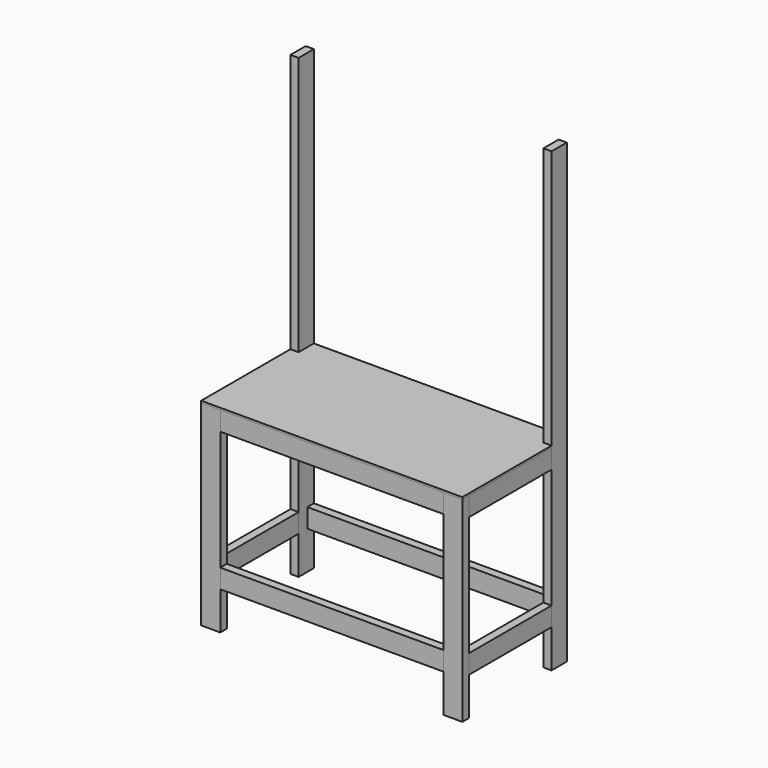
from build123d import *

# Parameters (mm, degrees)
F0_W      = 38.1
F0_H      = 88.9
F1_DEPTH  = 2133.6
F0_W_2    = 88.9
F0_H_2    = 38.1
F2_DEPTH  = 914.4
F3_W      = 1041.4
F3_H      = 88.9
F4_DEPTH  = 38.1
F5_W      = 482.6
F5_H      = 88.9
F6_DEPTH  = 38.1
F7_W      = 1143
F7_H      = 88.9
F8_DEPTH  = 38.1
F9_W      = 482.6
F9_H      = 88.9
F10_DEPTH = 38.1
F11_W     = 38.76292
F11_H     = 482.6
F11_W_2   = 1143
F11_H_2   = 37.750807
F11_W_3   = 37.43708
F11_W_4   = 1041.4
F11_H_3   = 38.1
F12_DEPTH = 88.9
F14_DEPTH = 9.525


with BuildPart() as f1:
    # F0 (on Top) → F1 (new body)
    with BuildSketch(Plane.XY):
        with Locations((-590.55, 260.35)):
            Rectangle(F0_W, F0_H)
        with Locations((590.55, 260.35)):
            Rectangle(F0_W, F0_H)
    extrude(amount=F1_DEPTH)


with BuildPart() as f2:
    # F0 (on Top) → F2 (new body)
    with BuildSketch(Plane.XY):
        with Locations((-565.15, -285.75)):
            Rectangle(F0_W_2, F0_H_2)
        with Locations((565.15, -285.75)):
            Rectangle(F0_W_2, F0_H_2)
    extrude(amount=F2_DEPTH)


with BuildPart() as f4:
    # F3 (on face) → F4 (new body)
    with BuildSketch(Plane.XZ.offset(304.8)):
        with Locations((0, 222.25)):
            Rectangle(F3_W, F3_H)
    extrude(amount=-F4_DEPTH)


with BuildPart() as f6:
    # F5 (on face) → F6 (new body)
    with BuildSketch(Plane.YZ.offset(609.6)):
        with Locations((-25.4, 222.25)):
            Rectangle(F5_W, F5_H)
    extrude(amount=-F6_DEPTH)


with BuildPart() as f8:
    # F7 (on face) → F8 (new body)
    with BuildSketch(Plane(origin=(0, 304.8, 0), x_dir=(-1, 0, 0), z_dir=(0, 1, 0))):
        with Locations((0, 222.25)):
            Rectangle(F7_W, F7_H)
    extrude(amount=-F8_DEPTH)


with BuildPart() as f10:
    # F9 (on face) → F10 (new body)
    with BuildSketch(Plane(origin=(-609.6, 0, 0), x_dir=(0, -1, 0), z_dir=(-1, 0, 0))):
        with Locations((25.4, 222.25)):
            Rectangle(F9_W, F9_H)
    extrude(amount=-F10_DEPTH)


with BuildPart() as f12:
    # F11 (on face) → F12 (new body)
    with BuildSketch(Plane.XY.offset(914.4)):
        with Locations((-590.21854, -25.4)):
            Rectangle(F11_W, F11_H)
        with Locations((0.66292, 285.924597)):
            Rectangle(F11_W_2, F11_H_2)
        with Locations((590.88146, -25.4)):
            Rectangle(F11_W_3, F11_H)
        with Locations((0, -285.75)):
            Rectangle(F11_W_4, F11_H_3)
    extrude(amount=-F12_DEPTH)


with BuildPart() as f14:
    # F13 (on face) → F14 (new body)
    with BuildSketch(Plane.XY.offset(914.4)):
        Polygon((-571.5, 215.9), (-609.6, 215.9), (-609.6, -304.8), (609.6, -304.8), (609.6, 215.9), (571.5, 215.9), (571.5, 304.8), (-571.5, 304.8), align=None)
    extrude(amount=F14_DEPTH)


solid = Compound([f1.part, f2.part, f4.part, f6.part, f8.part, f10.part, f12.part, f14.part])
